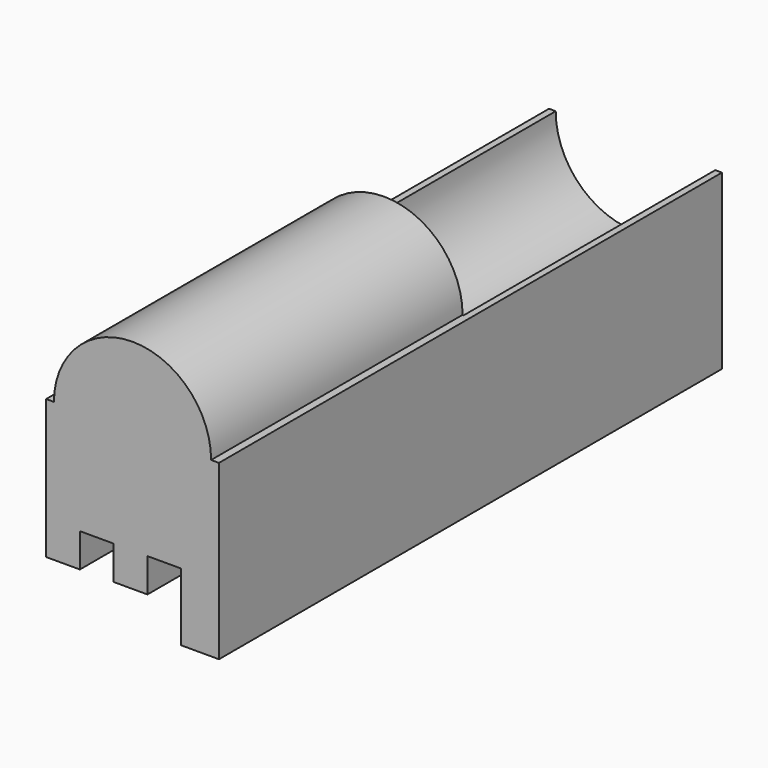
from build123d import *

# Parameters (mm, degrees)
PAD_DEPTH       = 40
SKETCH001_R     = 5
POCKET_DEPTH    = 20
SKETCH002_R     = 2.95
POCKET001_DEPTH = 16
POCKET002_DEPTH = 40.001
POCKET003_DEPTH = 20


with BuildPart() as part:
    # Sketch → Pad (new body)
    with BuildSketch(Plane.XZ):
        with BuildLine():
            ThreePointArc((5, 0), (0, 5), (-5, 0))
            Line((-5.5, 0), (-5, 0))
            Line((-5.5, -11), (-5.5, 0))
            Line((5.5, -11), (-5.5, -11))
            Line((5.5, 0), (5.5, -11))
            Line((5, 0), (5.5, 0))
        make_face()
    extrude(amount=PAD_DEPTH)

    # Sketch001 (on Face7 of Pad) → Pocket (cut)
    with BuildSketch(Plane(origin=(0, 0, 0), x_dir=(1, 0, 0), z_dir=(0, 1, 0))):
        Circle(SKETCH001_R)
    extrude(amount=-POCKET_DEPTH, mode=Mode.SUBTRACT)

    # Sketch002 (on Face8 of Pocket) → Pocket001 (cut)
    with BuildSketch(Plane(origin=(0, -20, 0), x_dir=(1, 0, 0), z_dir=(0, 1, 0))):
        Circle(SKETCH002_R)
    extrude(amount=-POCKET001_DEPTH, mode=Mode.SUBTRACT)

    # Sketch003 (on Face5 of Pocket001) → Pocket002 (cut, through all)
    with BuildSketch(Plane(origin=(0, 0, 0), x_dir=(1, 0, 0), z_dir=(0, 1, 0))):
        Polygon((-5.5, 11), (3.1, 11), (3.1, 6.7), (0.95, 6.7), (0.95, 8.85), (-1.2, 8.85), (-1.2, 6.7), (-3.35, 6.7), (-3.35, 8.85), (-5.5, 8.85), align=None)
    extrude(amount=-POCKET002_DEPTH, mode=Mode.SUBTRACT)

    # Sketch004 (on Face5 of Pocket002) → Pocket003 (cut)
    with BuildSketch(Plane(origin=(0, 0, 0), x_dir=(1, 0, 0), z_dir=(0, 1, 0))):
        with BuildLine():
            ThreePointArc((5.075, 0), (0, 5.075), (-5.075, 0))
            Line((-5.075, 0), (5.075, 0))
        make_face()
    extrude(amount=-POCKET003_DEPTH, mode=Mode.SUBTRACT)


solid = part.part
